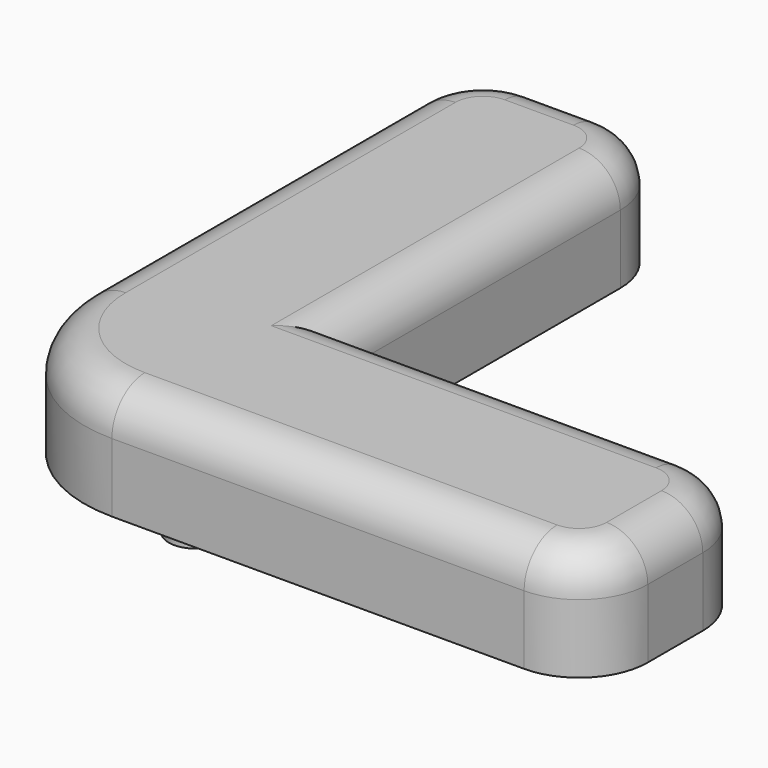
from build123d import *

# Parameters (mm, degrees)
F1_DEPTH = 8
F2_R     = 3
F4_DEPTH = 5


with BuildPart() as f1:
    # F0 (on Top) → F1 (new body)
    with BuildSketch(Plane.XY):
        with BuildLine():
            ThreePointArc((5, 0), (1.4644660941, -1.4644660941), (0, -5))
            Line((0, -5), (0, -35))
            ThreePointArc((0, -35), (2.9289321881, -42.0710678119), (10, -45))
            Line((10, -45), (40, -45))
            ThreePointArc((40, -45), (43.5355339059, -43.5355339059), (45, -40))
            Line((45, -40), (45, -35))
            ThreePointArc((45, -35), (43.5355339059, -31.4644660941), (40, -30))
            Line((40, -30), (15, -30))
            Line((15, -30), (15, -5))
            ThreePointArc((15, -5), (13.5355339059, -1.4644660941), (10, 0))
            Line((10, 0), (5, 0))
        make_face()
    extrude(amount=F1_DEPTH)

    # F2
    f2_edges = [f1.edges().sort_by_distance(p)[0] for p in [
        (15, -17.5, 8),
        (27.5, -30, 8),
        (13.535534, -1.464466, 8),
        (7.5, 0, 8),
        (1.464466, -1.464466, 8),
        (0, -20, 8),
        (2.928932, -42.071068, 8),
        (25, -45, 8),
        (43.535534, -43.535534, 8),
        (45, -37.5, 8),
        (43.535534, -31.464466, 8),
    ]]
    fillet(f2_edges, radius=F2_R)

    # F3 (on face) → F4 (join)
    with BuildSketch(Plane(origin=(0, 0, 0), x_dir=(1, 0, 0), z_dir=(0, 0, -1))):
        with BuildLine():
            ThreePointArc((7.5502525317, 37.4497474683), (7.5502525317, 34.6213203436), (10.3786796564, 34.6213203436))
            Line((10.3786796564, 34.6213203436), (7.5502525317, 37.4497474683))
        make_face()
        with BuildLine():
            Line((7.5502525317, 37.4497474683), (10.3786796564, 34.6213203436))
            ThreePointArc((10.3786796564, 34.6213203436), (10.8122251591, 35.2701670412), (10.9644660941, 36.0355339059))
            ThreePointArc((10.9644660941, 36.0355339059), (9.7298329588, 37.883292971), (7.5502525317, 37.4497474683))
        make_face()
    extrude(amount=F4_DEPTH)


solid = f1.part
